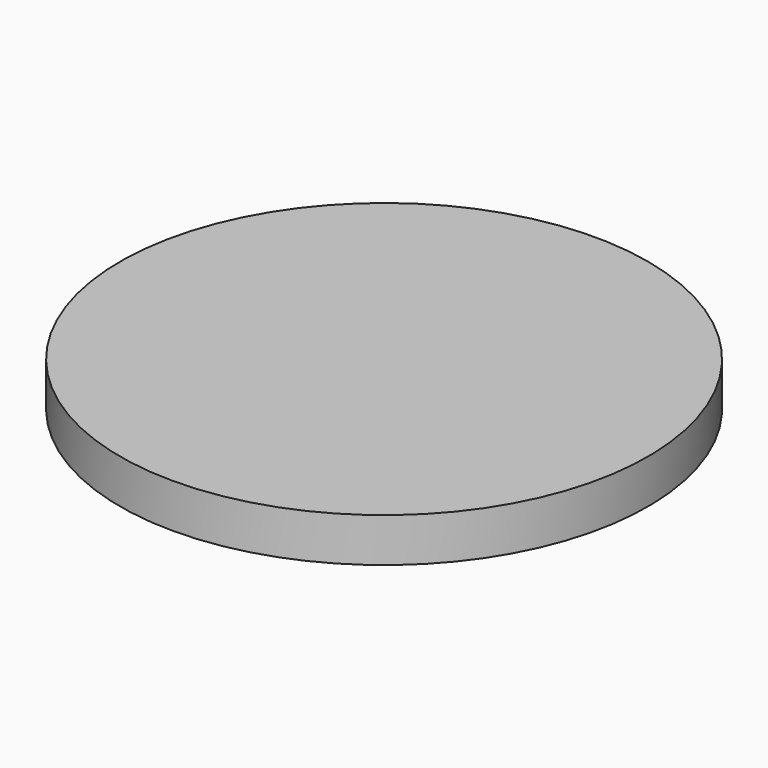
from build123d import *

# Parameters (mm, degrees)
F0_W     = 609.6
F0_H     = 609.6
F1_DEPTH = 50.8
F3_DEPTH = 50.8


with BuildPart() as f1:
    # F0 (on Top) → F1 (new body)
    with BuildSketch(Plane.XY):
        Rectangle(F0_W, F0_H)
    extrude(amount=F1_DEPTH)

    # F2 (on face) → F3 (cut)
    with BuildSketch(Plane.XY.offset(50.8)):
        with BuildLine():
            ThreePointArc((-304.8, 0), (-215.5261466756, 215.5261471357), (6.506e-07, 304.8))
            Line((6.506e-07, 304.8), (-304.8, 304.8))
            Line((-304.8, 304.8), (-304.8, 0))
        make_face()
        with BuildLine():
            ThreePointArc((6.506e-07, 304.8), (215.5261471357, 215.5261466756), (304.8, 0))
            Line((304.8, 0), (304.8, 304.8))
            Line((304.8, 304.8), (6.506e-07, 304.8))
        make_face()
        with BuildLine():
            Line((304.8, -304.8), (304.8, 0))
            ThreePointArc((304.8, 0), (215.5261466326, -215.5261471787), (-7.722e-07, -304.8))
            Line((-7.722e-07, -304.8), (304.8, -304.8))
        make_face()
        with BuildLine():
            Line((-304.8, -304.8), (-7.722e-07, -304.8))
            ThreePointArc((-7.722e-07, -304.8), (-215.5261471787, -215.5261466326), (-304.8, 0))
            Line((-304.8, 0), (-304.8, -304.8))
        make_face()
    extrude(amount=-F3_DEPTH, mode=Mode.SUBTRACT)


solid = f1.part
